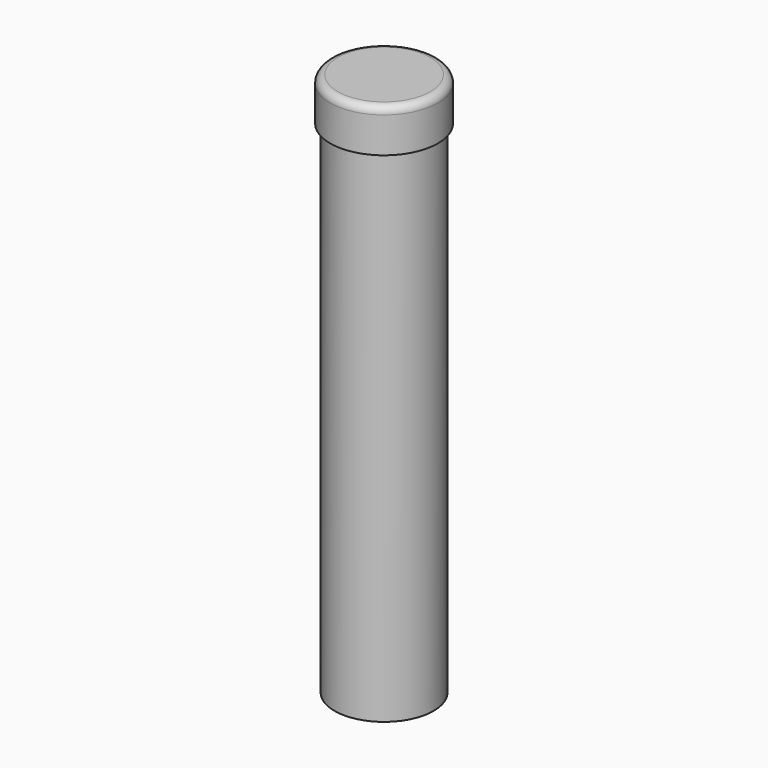
from build123d import *

# Parameters (mm, degrees)
F0_R     = 50
F0_R_2   = 46
F0_R_3   = 42
F1_DEPTH = 5
F2_DEPTH = 500
F3_DEPTH = 35
F4_R     = 7


with BuildPart() as f1:
    # F0 (on Top) → F1 (new body)
    with BuildSketch(Plane.XY):
        Circle(F0_R)
        Circle(F0_R_2, mode=Mode.SUBTRACT)
        Circle(F0_R_2)
        Circle(F0_R_3, mode=Mode.SUBTRACT)
        Circle(F0_R_3)
    extrude(amount=F1_DEPTH)

    # F0 (on Top) → F2 (join)
    with BuildSketch(Plane.XY):
        Circle(F0_R_2)
        Circle(F0_R_3, mode=Mode.SUBTRACT)
    extrude(amount=-F2_DEPTH)

    # F0 (on Top) → F3 (join)
    with BuildSketch(Plane.XY):
        Circle(F0_R)
        Circle(F0_R_2, mode=Mode.SUBTRACT)
    extrude(amount=-F3_DEPTH)

    # F4
    f4_edges = [f1.edges().sort_by_distance(p)[0] for p in [
        (-50, 0, 5),
    ]]
    fillet(f4_edges, radius=F4_R)


solid = f1.part
